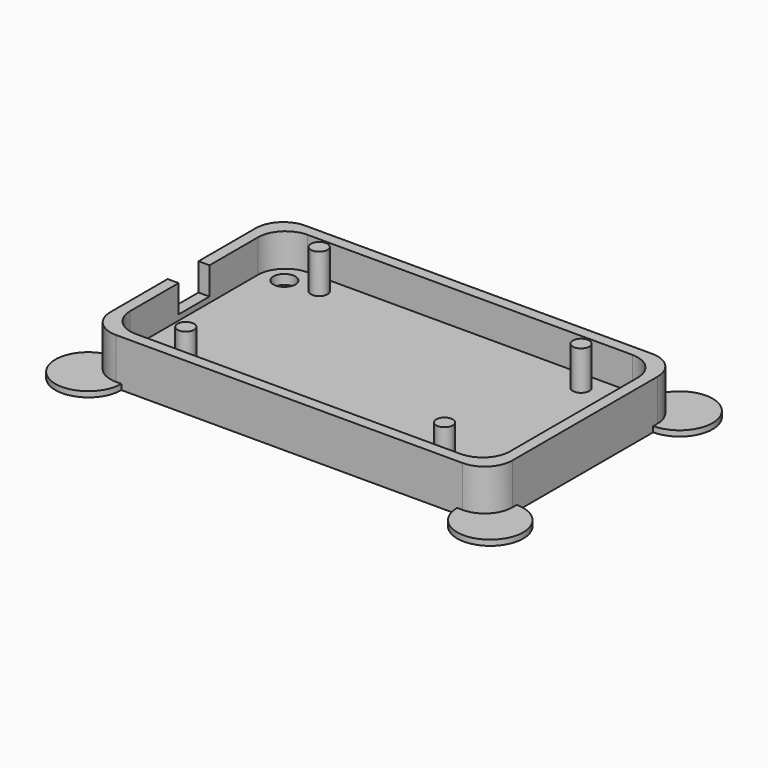
from build123d import *

# Parameters (mm, degrees)
F0_R           = 2
F0_R_2         = 1.5
F0_W           = 2
F0_H           = 7
F1_DEPTH       = 2.5
F2_DEPTH       = 8.5
F3_DEPTH       = 9.6
F4_DEPTH       = 3.5
F5_D           = 3
F5_CSINK_D     = 5.5
F5_CSINK_ANGLE = 90
F6_DEPTH       = 1


with BuildPart() as f1:
    # F0 (on Top) → F1 (new body)
    with BuildSketch(Plane.XY):
        with BuildLine():
            Line((52.2425711751, 68.4110085815), (-6.7574288249, 68.4110085815))
            ThreePointArc((-6.7574288249, 68.4110085815), (-10.2929627308, 66.9465424875), (-11.7574288249, 63.4110085815))
            Line((-11.7574288249, 63.4110085815), (-11.7574288249, 52.4110085815))
            Line((-11.7574288249, 52.4110085815), (-11.7574288249, 45.4110085815))
            Line((-11.7574288249, 45.4110085815), (-11.7574288249, 34.4110085815))
            ThreePointArc((-11.7574288249, 34.4110085815), (-10.2929627308, 30.8754746756), (-6.7574288249, 29.4110085815))
            Line((-6.7574288249, 29.4110085815), (52.2425711751, 29.4110085815))
            ThreePointArc((52.2425711751, 29.4110085815), (55.778105081, 30.8754746756), (57.2425711751, 34.4110085815))
            Line((57.2425711751, 34.4110085815), (57.2425711751, 63.4110085815))
            ThreePointArc((57.2425711751, 63.4110085815), (55.778105081, 66.9465424875), (52.2425711751, 68.4110085815))
        make_face()
        with Locations((-7.7574288249, 33.4110085815)):
            Circle(F0_R, mode=Mode.SUBTRACT)
        with Locations((-1.2574288249, 33.9110085815)):
            Circle(F0_R_2, mode=Mode.SUBTRACT)
        with Locations((45.7425711751, 33.9110085815)):
            Circle(F0_R_2, mode=Mode.SUBTRACT)
        with Locations((53.2425711751, 33.4110085815)):
            Circle(F0_R, mode=Mode.SUBTRACT)
        with Locations((-7.7574288249, 64.4110085815)):
            Circle(F0_R, mode=Mode.SUBTRACT)
        with Locations((-1.8220887287, 64.9110085815)):
            Circle(F0_R_2, mode=Mode.SUBTRACT)
        with Locations((45.7425711751, 64.9110085815)):
            Circle(F0_R_2, mode=Mode.SUBTRACT)
        with Locations((53.2425711751, 64.4110085815)):
            Circle(F0_R, mode=Mode.SUBTRACT)
        with BuildLine():
            ThreePointArc((-11.7574288249, 63.4110085815), (-10.2929627308, 66.9465424875), (-6.7574288249, 68.4110085815))
            Line((-6.7574288249, 68.4110085815), (52.2425711751, 68.4110085815))
            ThreePointArc((52.2425711751, 68.4110085815), (55.778105081, 66.9465424875), (57.2425711751, 63.4110085815))
            Line((57.2425711751, 63.4110085815), (57.2425711751, 34.4110085815))
            ThreePointArc((57.2425711751, 34.4110085815), (55.778105081, 30.8754746756), (52.2425711751, 29.4110085815))
            Line((52.2425711751, 29.4110085815), (-6.7574288249, 29.4110085815))
            ThreePointArc((-6.7574288249, 29.4110085815), (-10.2929627308, 30.8754746756), (-11.7574288249, 34.4110085815))
            Line((-11.7574288249, 34.4110085815), (-11.7574288249, 45.4110085815))
            Line((-11.7574288249, 45.4110085815), (-13.7574288249, 45.4110085815))
            Line((-13.7574288249, 45.4110085815), (-13.7574288249, 33.4110085815))
            Line((-13.7574288249, 33.4110085815), (-13.7574288249, 32.4110085815))
            ThreePointArc((-13.7574288249, 32.4110085815), (-12.2929627308, 28.8754746756), (-8.7574288249, 27.4110085815))
            Line((-8.7574288249, 27.4110085815), (-7.7574288249, 27.4110085815))
            Line((-7.7574288249, 27.4110085815), (53.2425711751, 27.4110085815))
            Line((53.2425711751, 27.4110085815), (54.2425711751, 27.4110085815))
            ThreePointArc((54.2425711751, 27.4110085815), (57.778105081, 28.8754746756), (59.2425711751, 32.4110085815))
            Line((59.2425711751, 32.4110085815), (59.2425711751, 33.4110085815))
            Line((59.2425711751, 33.4110085815), (59.2425711751, 64.4110085815))
            Line((59.2425711751, 64.4110085815), (59.2425711751, 65.4110085815))
            ThreePointArc((59.2425711751, 65.4110085815), (57.778105081, 68.9465424875), (54.2425711751, 70.4110085815))
            Line((54.2425711751, 70.4110085815), (53.2425711751, 70.4110085815))
            Line((53.2425711751, 70.4110085815), (-7.7574288249, 70.4110085815))
            Line((-7.7574288249, 70.4110085815), (-8.7574288249, 70.4110085815))
            ThreePointArc((-8.7574288249, 70.4110085815), (-12.2929627308, 68.9465424875), (-13.7574288249, 65.4110085815))
            Line((-13.7574288249, 65.4110085815), (-13.7574288249, 64.4110085815))
            Line((-13.7574288249, 64.4110085815), (-13.7574288249, 52.4110085815))
            Line((-13.7574288249, 52.4110085815), (-11.7574288249, 52.4110085815))
            Line((-11.7574288249, 52.4110085815), (-11.7574288249, 63.4110085815))
        make_face()
        with Locations((-1.2574288249, 33.9110085815)):
            Circle(F0_R_2)
        with Locations((45.7425711751, 33.9110085815)):
            Circle(F0_R_2)
        with Locations((45.7425711751, 64.9110085815)):
            Circle(F0_R_2)
        with Locations((-1.8220887287, 64.9110085815)):
            Circle(F0_R_2)
        with Locations((-12.7574288249, 48.9110085815)):
            Rectangle(F0_W, F0_H)
    extrude(amount=F1_DEPTH)

    # F0 (on Top) → F2 (join)
    with BuildSketch(Plane.XY):
        with BuildLine():
            ThreePointArc((-11.7574288249, 63.4110085815), (-10.2929627308, 66.9465424875), (-6.7574288249, 68.4110085815))
            Line((-6.7574288249, 68.4110085815), (52.2425711751, 68.4110085815))
            ThreePointArc((52.2425711751, 68.4110085815), (55.778105081, 66.9465424875), (57.2425711751, 63.4110085815))
            Line((57.2425711751, 63.4110085815), (57.2425711751, 34.4110085815))
            ThreePointArc((57.2425711751, 34.4110085815), (55.778105081, 30.8754746756), (52.2425711751, 29.4110085815))
            Line((52.2425711751, 29.4110085815), (-6.7574288249, 29.4110085815))
            ThreePointArc((-6.7574288249, 29.4110085815), (-10.2929627308, 30.8754746756), (-11.7574288249, 34.4110085815))
            Line((-11.7574288249, 34.4110085815), (-11.7574288249, 45.4110085815))
            Line((-11.7574288249, 45.4110085815), (-13.7574288249, 45.4110085815))
            Line((-13.7574288249, 45.4110085815), (-13.7574288249, 33.4110085815))
            Line((-13.7574288249, 33.4110085815), (-13.7574288249, 32.4110085815))
            ThreePointArc((-13.7574288249, 32.4110085815), (-12.2929627308, 28.8754746756), (-8.7574288249, 27.4110085815))
            Line((-8.7574288249, 27.4110085815), (-7.7574288249, 27.4110085815))
            Line((-7.7574288249, 27.4110085815), (53.2425711751, 27.4110085815))
            Line((53.2425711751, 27.4110085815), (54.2425711751, 27.4110085815))
            ThreePointArc((54.2425711751, 27.4110085815), (57.778105081, 28.8754746756), (59.2425711751, 32.4110085815))
            Line((59.2425711751, 32.4110085815), (59.2425711751, 33.4110085815))
            Line((59.2425711751, 33.4110085815), (59.2425711751, 64.4110085815))
            Line((59.2425711751, 64.4110085815), (59.2425711751, 65.4110085815))
            ThreePointArc((59.2425711751, 65.4110085815), (57.778105081, 68.9465424875), (54.2425711751, 70.4110085815))
            Line((54.2425711751, 70.4110085815), (53.2425711751, 70.4110085815))
            Line((53.2425711751, 70.4110085815), (-7.7574288249, 70.4110085815))
            Line((-7.7574288249, 70.4110085815), (-8.7574288249, 70.4110085815))
            ThreePointArc((-8.7574288249, 70.4110085815), (-12.2929627308, 68.9465424875), (-13.7574288249, 65.4110085815))
            Line((-13.7574288249, 65.4110085815), (-13.7574288249, 64.4110085815))
            Line((-13.7574288249, 64.4110085815), (-13.7574288249, 52.4110085815))
            Line((-13.7574288249, 52.4110085815), (-11.7574288249, 52.4110085815))
            Line((-11.7574288249, 52.4110085815), (-11.7574288249, 63.4110085815))
        make_face()
    extrude(amount=F2_DEPTH)

    # F0 (on Top) → F3 (join)
    with BuildSketch(Plane.XY):
        with Locations((-1.8220887287, 64.9110085815)):
            Circle(F0_R_2)
        with Locations((-1.2574288249, 33.9110085815)):
            Circle(F0_R_2)
        with Locations((45.7425711751, 33.9110085815)):
            Circle(F0_R_2)
        with Locations((45.7425711751, 64.9110085815)):
            Circle(F0_R_2)
    extrude(amount=F3_DEPTH)

    # F0 (on Top) → F4 (join)
    with BuildSketch(Plane.XY):
        with Locations((-12.7574288249, 48.9110085815)):
            Rectangle(F0_W, F0_H)
    extrude(amount=F4_DEPTH)

    # F5 (through all)
    with Locations(Plane(origin=(0, 0, 0), x_dir=(1, 0, 0), z_dir=(0, 0, -1))):
        with Locations((53.2425711751, -64.4110085815), (53.2425711751, -33.4110085815), (-7.7574288249, -33.4110085815), (-7.7574288249, -64.4110085815)):
            CounterSinkHole(F5_D / 2, F5_CSINK_D / 2, counter_sink_angle=F5_CSINK_ANGLE)

    # F0 (on Top) → F6 (join)
    with BuildSketch(Plane.XY):
        with BuildLine():
            ThreePointArc((-7.7574288249, 70.4110085815), (-18.000069512, 74.6536492686), (-13.7574288249, 64.4110085815))
            Line((-13.7574288249, 64.4110085815), (-13.7574288249, 65.4110085815))
            ThreePointArc((-13.7574288249, 65.4110085815), (-12.2929627308, 68.9465424875), (-8.7574288249, 70.4110085815))
            Line((-8.7574288249, 70.4110085815), (-7.7574288249, 70.4110085815))
        make_face()
        with BuildLine():
            ThreePointArc((59.2425711751, 64.4110085815), (63.4852118622, 74.6536492686), (53.2425711751, 70.4110085815))
            Line((53.2425711751, 70.4110085815), (54.2425711751, 70.4110085815))
            ThreePointArc((54.2425711751, 70.4110085815), (57.778105081, 68.9465424875), (59.2425711751, 65.4110085815))
            Line((59.2425711751, 65.4110085815), (59.2425711751, 64.4110085815))
        make_face()
        with BuildLine():
            Line((54.2425711751, 27.4110085815), (53.2425711751, 27.4110085815))
            ThreePointArc((53.2425711751, 27.4110085815), (63.4852118622, 23.1683678944), (59.2425711751, 33.4110085815))
            Line((59.2425711751, 33.4110085815), (59.2425711751, 32.4110085815))
            ThreePointArc((59.2425711751, 32.4110085815), (57.778105081, 28.8754746756), (54.2425711751, 27.4110085815))
        make_face()
        with BuildLine():
            Line((-13.7574288249, 32.4110085815), (-13.7574288249, 33.4110085815))
            ThreePointArc((-13.7574288249, 33.4110085815), (-18.000069512, 23.1683678944), (-7.7574288249, 27.4110085815))
            Line((-7.7574288249, 27.4110085815), (-8.7574288249, 27.4110085815))
            ThreePointArc((-8.7574288249, 27.4110085815), (-12.2929627308, 28.8754746756), (-13.7574288249, 32.4110085815))
        make_face()
    extrude(amount=F6_DEPTH)


solid = f1.part
